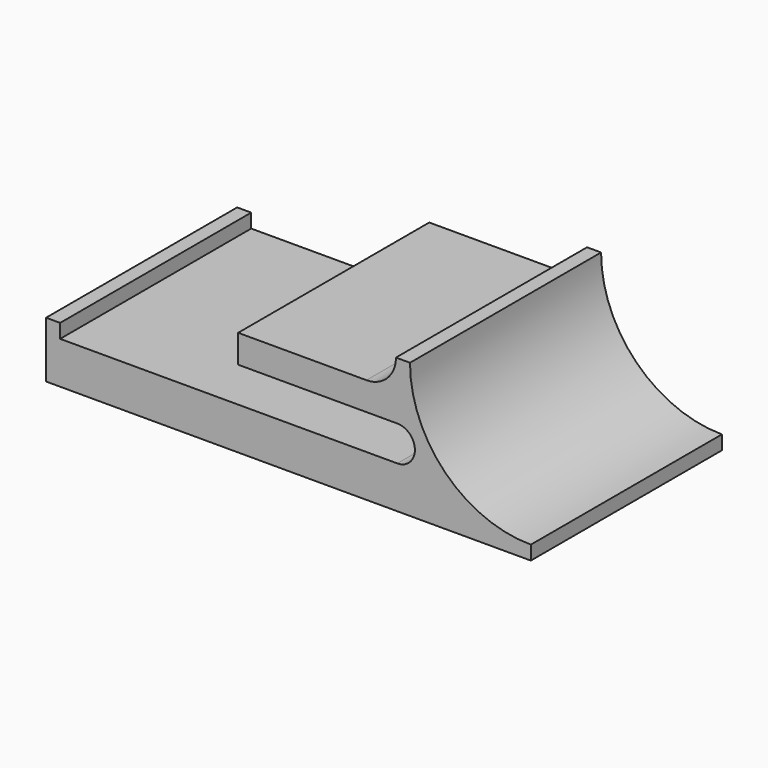
from build123d import *

# Parameters (mm, degrees)
EXTRUDE015_DEPTH = 27.5
EXTRUDE_DEPTH    = 17


with BuildPart() as extrude015:
    # Sketch020 → Extrude015 (new body)
    with BuildSketch(Plane(origin=(-6, 0, 0), x_dir=(0, -1, 0), z_dir=(-1, 0, 0))):
        Polygon((19.5, -10.1), (19.5, -9.1), (5, -9.1), (4, -10.1), align=None)
    extrude(amount=EXTRUDE015_DEPTH)


with BuildPart() as cut006:
    # Sketch001 → Extrude (new body)
    with BuildSketch(Plane.XZ.offset(25)):
        with BuildLine():
            ThreePointArc((-8.6, 0), (-6.081118, -6.081118), (0, -8.6))
            Line((0, -8.6), (0, -9.6))
            Line((0, -9.6), (-34.5, -9.6))
            Line((-34.5, -9.6), (-34.5, -5.6))
            Line((-33.5, -5.6), (-34.5, -5.6))
            Line((-33.5, -6.6), (-33.5, -5.6))
            Line((-33.5, -6.6), (-9.5, -6.6))
            ThreePointArc((-9.5, -6.6), (-8.25, -5.35), (-9.5, -4.1))
            Line((-9.5, -4.1), (-20.83, -4.1))
            Line((-20.83, -4.1), (-20.83, -2.1))
            Line((-20.83, -2.1), (-11.7, -2.1))
            ThreePointArc((-11.7, -2.1), (-10.215076, -1.484924), (-9.6, 0))
            Line((-9.6, 0), (-8.6, 0))
        make_face()
    extrude(amount=-EXTRUDE_DEPTH)


with BuildPart() as cut006_1:
    # Extrude placement: moved
    add(cut006.part.moved(Location((0, 4.5, 0))))

    # Cut006: cut Extrude015
    add(extrude015.part, mode=Mode.SUBTRACT)


solid = cut006_1.part
